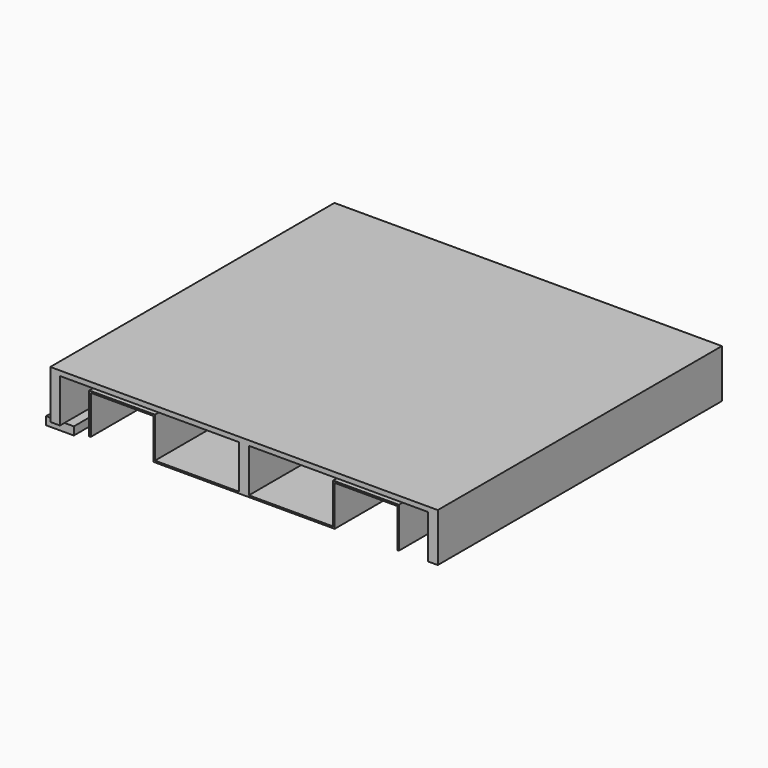
from build123d import *

# Parameters (mm, degrees)
F1_DEPTH = 1100
F3_DEPTH = 1100
F4_W     = 85.982085
F4_H     = 254.69566
F5_DEPTH = 25


with BuildPart() as f1:
    # F0 (on Front) → F1 (new body)
    with BuildSketch(Plane.XZ):
        Polygon((600, 150), (0, 150), (0, 0), (15, 0), (15, 135), (570, 135), (570, 0), (600, 0), align=None)
        Polygon((0, 0), (0, 150), (-600, 150), (-600, 0), (-570, 0), (-570, 135), (-15, 135), (-15, 0), align=None)
    extrude(amount=-F1_DEPTH)

    # F2 (on Front) → F3 (join)
    with BuildSketch(Plane.XZ):
        Polygon((0, -5), (0, 0), (-275.860757, 0), (-275.860757, 125.209585), (-479.573339, 125.209585), (-479.573339, 0), (-474.573339, 0), (-474.573339, 120.209585), (-280.860757, 120.209585), (-280.860757, -5), align=None)
        Polygon((474.573339, 0), (479.573339, 0), (479.573339, 125.209585), (275.860757, 125.209585), (275.860757, 0), (0, 0), (0, -5), (280.860757, -5), (280.860757, 120.209585), (474.573339, 120.209585), align=None)
    extrude(amount=-F3_DEPTH)

    # F4 (on face) → F5 (join)
    with BuildSketch(Plane(origin=(0, 0, 0), x_dir=(1, 0, 0), z_dir=(0, 0, -1))):
        with Locations((-583.983242, -144.877729)):
            Rectangle(F4_W, F4_H)
    extrude(amount=F5_DEPTH)


solid = f1.part
